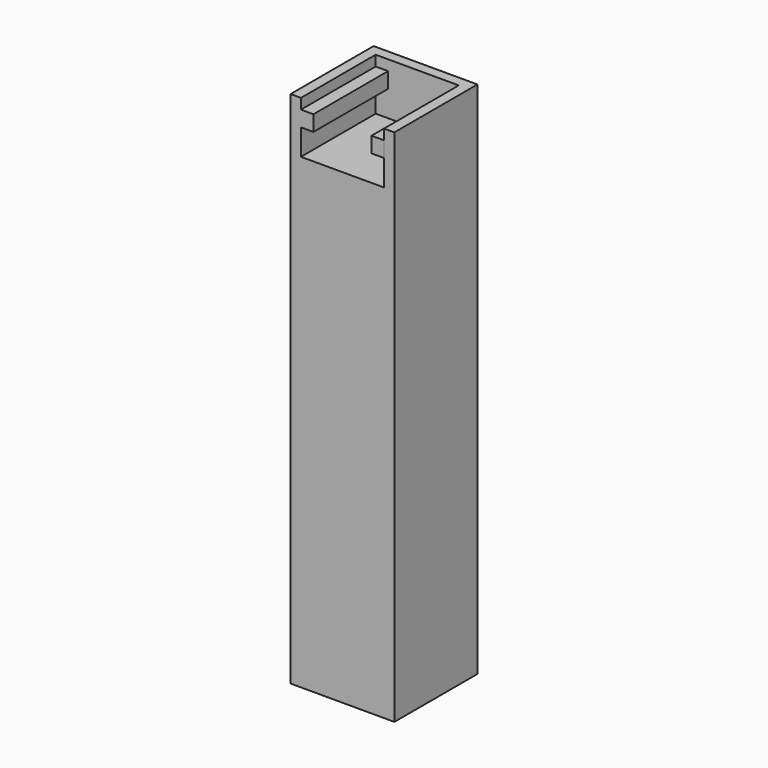
from build123d import *

# Parameters (mm, degrees)
F0_W     = 25.4
F0_H     = 25.4
F1_DEPTH = 127
F2_W     = 20.32
F2_H     = 22.86
F3_DEPTH = 12.7
F4_W     = 22.86
F4_H     = 3.81
F5_DEPTH = 3.048
F6_W     = 3.048
F6_H     = 3.81
F7_DEPTH = 25.4


with BuildPart() as f1:
    # F0 (on Top) → F1 (new body)
    with BuildSketch(Plane.XY):
        with Locations((12.7, 12.7)):
            Rectangle(F0_W, F0_H)
    extrude(amount=-F1_DEPTH)

    # F2 (on face) → F3 (cut)
    with BuildSketch(Plane.XY):
        with Locations((12.7, 11.43)):
            Rectangle(F2_W, F2_H)
    extrude(amount=-F3_DEPTH, mode=Mode.SUBTRACT)

    # F4 (on face) → F5 (join)
    with BuildSketch(Plane.YZ.offset(2.54)):
        with Locations((11.43, -4.445)):
            Rectangle(F4_W, F4_H)
    extrude(amount=F5_DEPTH)


with BuildPart() as f7:
    # F6 (on face) → F7 (new body)
    with BuildSketch(Plane.XZ):
        with Locations((21.336, -4.445)):
            Rectangle(F6_W, F6_H)
    extrude(amount=-F7_DEPTH)


solid = Compound([f1.part, f7.part])
